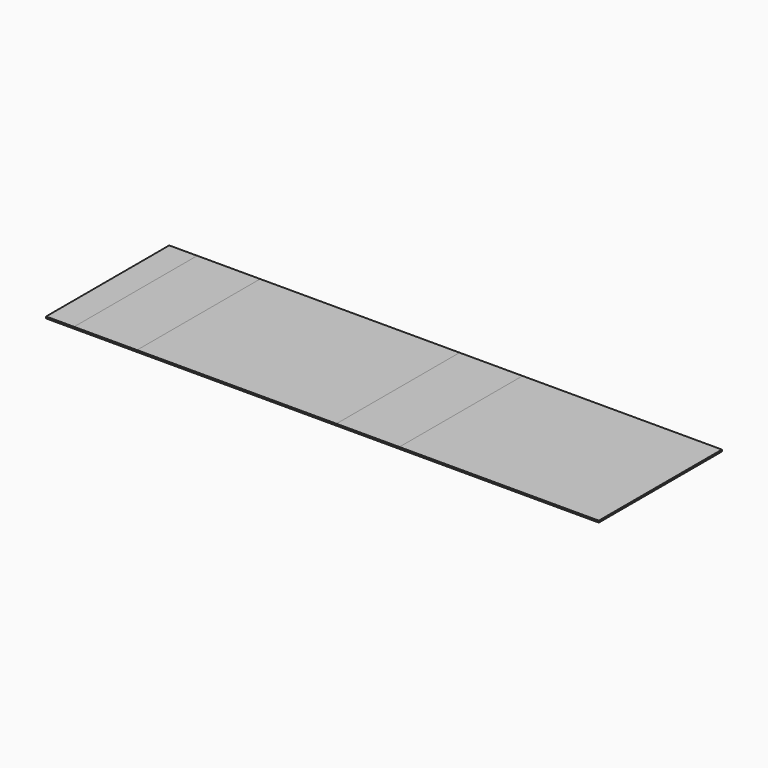
from build123d import *

# Parameters (mm, degrees)
F0_W     = 361.95
F0_H     = 279.4
F1_DEPTH = 3.175
F0_W_2   = 114.3
F2_DEPTH = 3.175
F3_DEPTH = 3.175
F4_DEPTH = 3.175
F0_W_3   = 50.8
F5_DEPTH = 3.175


with BuildPart() as f1:
    # F0 (on Top) → F1 (new body)
    with BuildSketch(Plane.XY):
        Rectangle(F0_W, F0_H)
    extrude(amount=F1_DEPTH)


with BuildPart() as f2:
    # F0 (on Top) → F2 (new body)
    with BuildSketch(Plane.XY):
        with Locations((-238.125, 0)):
            Rectangle(F0_W_2, F0_H)
    extrude(amount=F2_DEPTH)


with BuildPart() as f3:
    # F0 (on Top) → F3 (new body)
    with BuildSketch(Plane.XY):
        with Locations((238.125, 0)):
            Rectangle(F0_W_2, F0_H)
    extrude(amount=F3_DEPTH)


with BuildPart() as f4:
    # F0 (on Top) → F4 (new body)
    with BuildSketch(Plane.XY):
        with Locations((476.25, 0)):
            Rectangle(F0_W, F0_H)
    extrude(amount=F4_DEPTH)


with BuildPart() as f5:
    # F0 (on Top) → F5 (new body)
    with BuildSketch(Plane.XY):
        with Locations((-320.675, 0)):
            Rectangle(F0_W_3, F0_H)
    extrude(amount=F5_DEPTH)


solid = Compound([f1.part, f2.part, f3.part, f4.part, f5.part])
